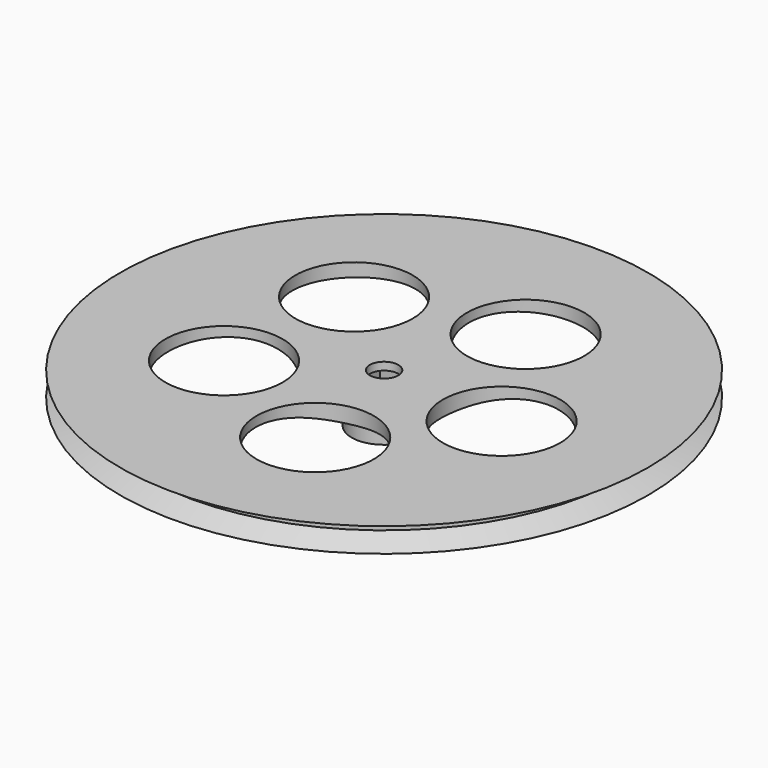
from build123d import *

# Parameters (mm, degrees)
BOX_W              = 13.4
BOX_H              = 13.4
BOX_DEPTH          = 14
SKETCH001_R        = 20
POCKET_DEPTH       = 6
POLARPATTERN_COUNT = 5


with BuildPart() as cube:
    # Box → Box (new body)
    with BuildSketch(Plane(origin=(-6.7, -6.7, 10), x_dir=(1, 0, 0), z_dir=(0, 0, 1))):
        with Locations((6.7, 6.7)):
            Rectangle(BOX_W, BOX_H)
    extrude(amount=BOX_DEPTH)


with BuildPart() as body:
    # Sketch → Revolve (revolve)
    with BuildSketch(Plane.XZ):
        with BuildLine():
            Line((78.70723, 18.37), (90, 18.37))
            Line((90, 18.37), (82.032315, 21.27))
            Line((82.032315, 21.27), (82.032315, 23.77))
            Line((82.032315, 23.77), (90, 26.67))
            Line((90, 26.67), (4.86, 26.67))
            Line((4.86, 26.67), (4.86, 10.010664))
            Line((4.86, 10.010664), (11.05, 10.010664))
            Line((11.05, 10.010664), (11.05, 18.37))
            add(Edge.make_bspline(
                [(78.70723, 18.37), (58.452015, 25.146616), (31.574902, 25.049244), (11.05, 18.37)],
                knots=[0, 0, 0, 0, 1, 1, 1, 1], degree=3))
        make_face()
    revolve(axis=Axis((0, 0, 0), (0, 0, 1)))

    # Cut: cut Cube
    add(cube.part, mode=Mode.SUBTRACT)

    # Sketch001 (on Face12 of BaseFeature) → Pocket (cut)
    with BuildSketch(Plane.XY.offset(26.67)):
        with Locations((-32.618477, 27.97224)):
            Circle(SKETCH001_R)
    pocket = extrude(amount=-POCKET_DEPTH, mode=Mode.SUBTRACT)

    # PolarPattern: Pocket ×5 about axis
    polarpattern_axis = Axis((0, 0, 26.67), (0, 0, 1))
    for i in range(1, POLARPATTERN_COUNT):
        add(pocket.rotate(polarpattern_axis, i * 360 / POLARPATTERN_COUNT), mode=Mode.SUBTRACT)


solid = body.part
